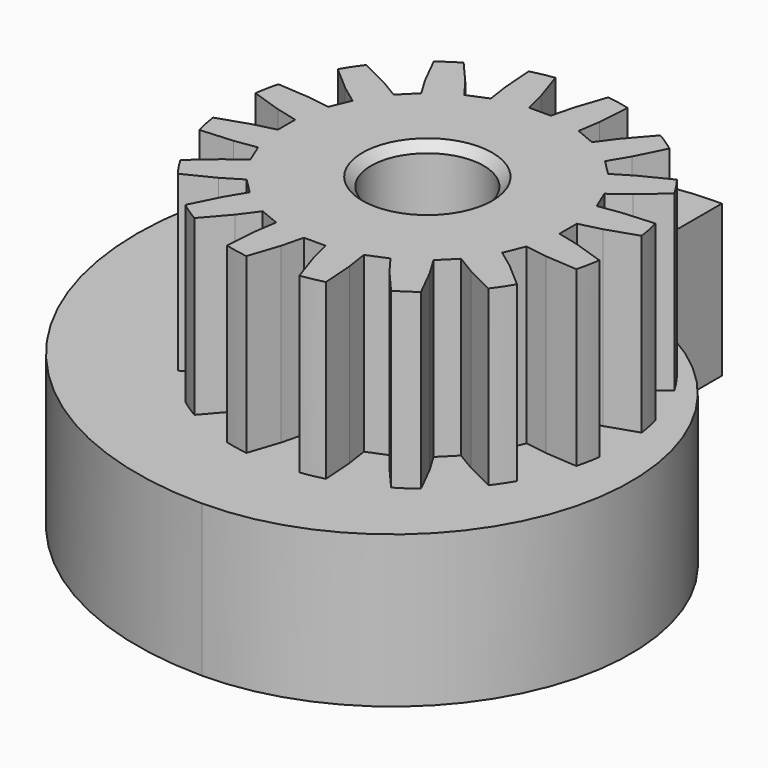
from build123d import *

# Parameters (mm, degrees)
PAD_DEPTH          = 7
SKETCH001_R        = 9
PAD001_DEPTH       = 8
POCKET_DEPTH       = 8
SKETCH003_R        = 2.6
POCKET001_DEPTH    = 16
POLARPATTERN_COUNT = 16
CHAMFER_SIZE       = 0.4


with BuildPart() as part:
    # Sketch → Pad (new body)
    with BuildSketch(Plane.XY):
        with BuildLine():
            ThreePointArc((0, -13), (11, -2), (0, 9))
            Line((0, 17), (0, 9))
            ThreePointArc((0, 17), (-15, 2), (0, -13))
        make_face()
    extrude(amount=-PAD_DEPTH)

    # Sketch001 (on Face4 of Pad) → Pad001 (join)
    with BuildSketch(Plane.XY):
        Circle(SKETCH001_R)
    extrude(amount=PAD001_DEPTH)

    # Sketch002 (on Face7 of Pad001) → Pocket (cut)
    with BuildSketch(Plane.XY.offset(8)):
        Polygon((1.25, 9), (0.75, 7.5), (0.5, 6.5), (-0.5, 6.5), (-0.75, 7.5), (-1.25, 9), align=None)
    pocket = extrude(amount=-POCKET_DEPTH, mode=Mode.SUBTRACT)

    # Sketch003 (on Face7 of Pad001) → Pocket001 (cut)
    with BuildSketch(Plane.XY.offset(8)):
        Circle(SKETCH003_R)
    extrude(amount=-POCKET001_DEPTH, mode=Mode.SUBTRACT)

    # PolarPattern: Pocket ×16 about axis
    polarpattern_axis = Axis((0, 0, 8), (0, 0, 1))
    for i in range(1, POLARPATTERN_COUNT):
        add(pocket.rotate(polarpattern_axis, i * 360 / POLARPATTERN_COUNT), mode=Mode.SUBTRACT)

    # Chamfer
    chamfer_edges = [part.edges().sort_by_distance(p)[0] for p in [
        (-2.6, 0, 8),
        (-2.6, 0, -7),
    ]]
    chamfer(chamfer_edges, length=CHAMFER_SIZE)


solid = part.part
